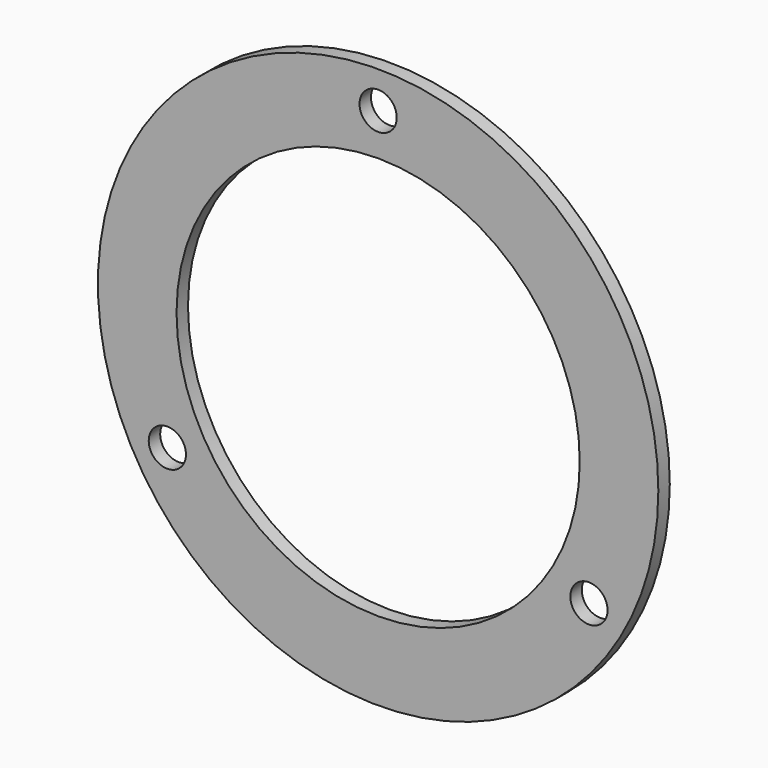
from build123d import *

# Parameters (mm, degrees)
F0_R     = 48.925
F0_R_2   = 35.2
F1_DEPTH = 2.5
F3_D     = 6.5


with BuildPart() as f1:
    # F0 (on Front) → F1 (new body)
    with BuildSketch(Plane.XZ):
        Circle(F0_R)
        Circle(F0_R_2, mode=Mode.SUBTRACT)
    extrude(amount=-F1_DEPTH)

    # F3 (through all)
    with Locations(Plane.XZ):
        with Locations((0, 42.5), (-36.80608, -21.25), (36.80608, -21.25)):
            Hole(F3_D / 2)


solid = f1.part
